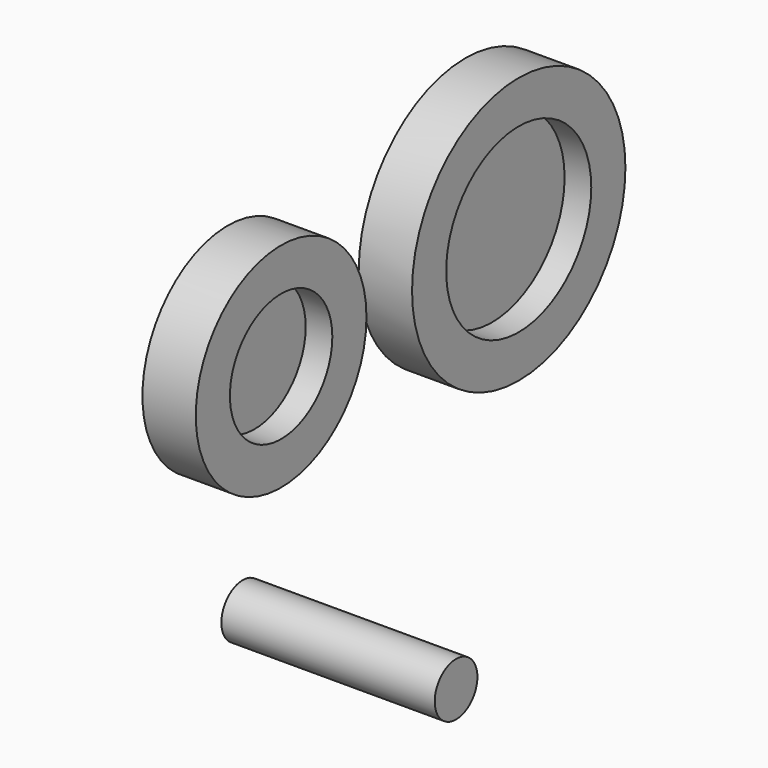
from build123d import *

# Parameters (mm, degrees)
F0_R     = 6.35
F1_DEPTH = 50.8
F0_R_2   = 25.4
F0_R_3   = 31.75
F2_DEPTH = 12.7
F3_R     = 15.24
F4_R     = 21.59
F5_DEPTH = 6.35


with BuildPart() as f1:
    # F0 (on Right) → F1 (new body)
    with BuildSketch(Plane.YZ):
        with Locations((-34.326255, -25.183103)):
            Circle(F0_R)
    extrude(amount=F1_DEPTH)


with BuildPart() as f2:
    # F0 (on Right) → F2 (new body)
    with BuildSketch(Plane.YZ):
        with Locations((-38.765708, 31.89559)):
            Circle(F0_R_2)
        with Locations((31.948448, 31.89559)):
            Circle(F0_R_3)
    extrude(amount=F2_DEPTH)

    # F3 (on face) + F4 (on face) → F5 (cut)
    with BuildSketch(Plane.YZ.offset(12.7)):
        with Locations((-38.765708, 31.89559)):
            Circle(F3_R)
    with BuildSketch(Plane.YZ.offset(12.7)):
        with Locations((31.948448, 31.89559)):
            Circle(F4_R)
    extrude(amount=-F5_DEPTH, mode=Mode.SUBTRACT)


solid = Compound([f1.part, f2.part])
